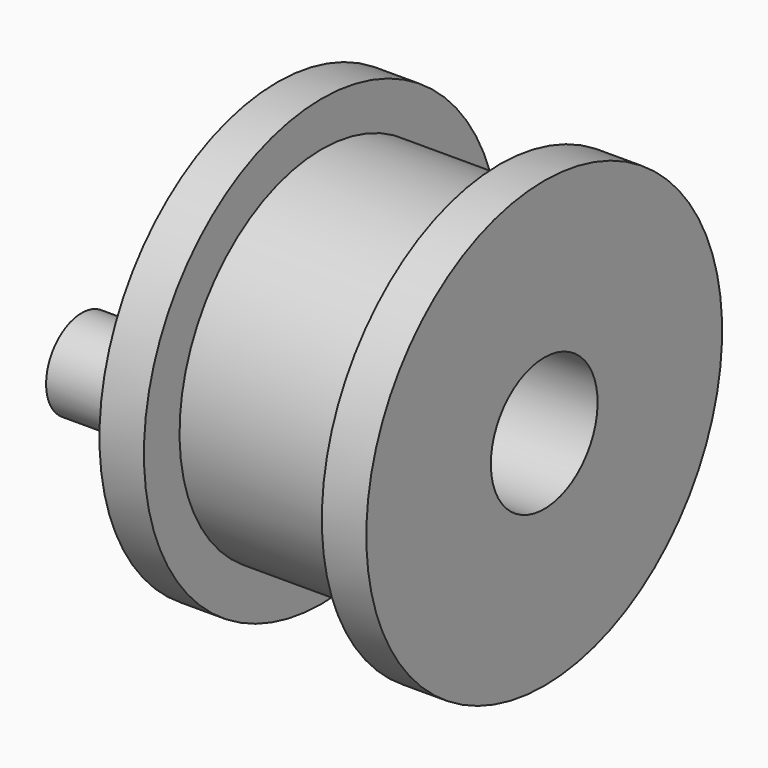
from build123d import *

# Parameters (mm, degrees)
F0_W     = 12.7
F0_H     = 7.9375
F2_R     = 3.175
F3_DEPTH = 6.35


with BuildPart() as f1:
    # F0 (on Front) → F1 (revolve)
    with BuildSketch(Plane.XZ):
        with Locations((0, 8.73125)):
            Rectangle(F0_W, F0_H)
        Polygon((6.35, 15.875), (6.35, 12.7), (6.35, 4.7625), (9.525, 4.7625), (9.525, 15.875), align=None)
        Polygon((-6.35, 4.7625), (-6.35, 12.7), (-6.35, 15.875), (-9.525, 15.875), (-9.525, 4.7625), align=None)
    revolve(axis=Axis((0, 0, 0), (1, 0, 0)))

    # F2 (on face) → F3 (join)
    with BuildSketch(Plane(origin=(-9.525, 0, 0), x_dir=(0, -1, 0), z_dir=(-1, 0, 0))):
        with Locations((9.525, 0)):
            Circle(F2_R)
    extrude(amount=F3_DEPTH)


solid = f1.part
